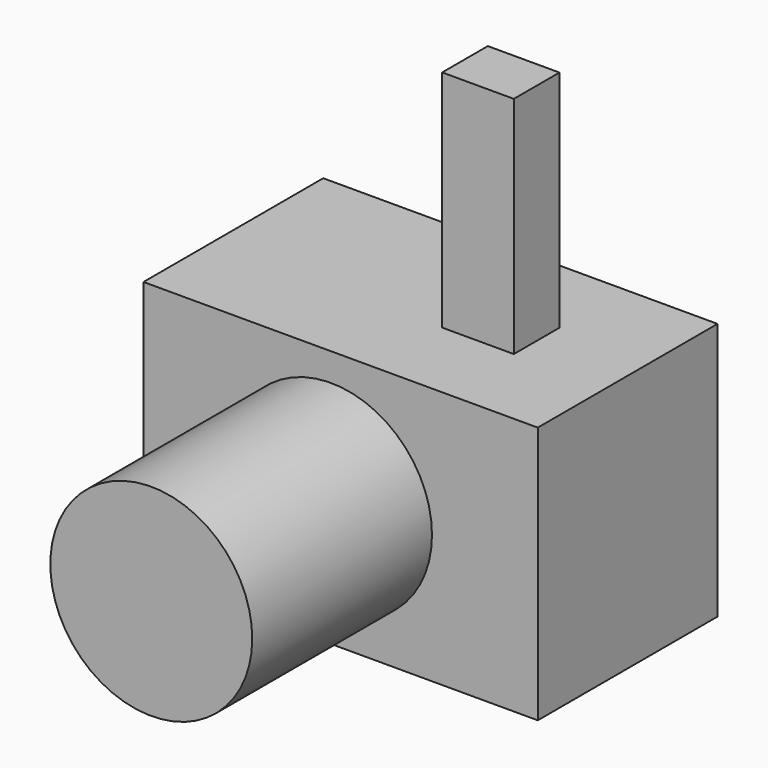
from build123d import *

# Parameters (mm, degrees)
F0_W     = 44.574387
F0_H     = 29.136432
F1_DEPTH = 25.4
F2_W     = 8.096363
F2_H     = 6.445411
F3_DEPTH = 25.4
F4_R     = 11.414874
F5_DEPTH = 25.4


with BuildPart() as f1:
    # F0 (on Front) → F1 (new body)
    with BuildSketch(Plane.XZ):
        with Locations((-22.287194, 14.568216)):
            Rectangle(F0_W, F0_H)
    extrude(amount=F1_DEPTH)

    # F2 (on face) → F3 (join)
    with BuildSketch(Plane.XY.offset(29.136432)):
        with Locations((-14.480712, -12.520231)):
            Rectangle(F2_W, F2_H)
    extrude(amount=F3_DEPTH)

    # F4 (on face) → F5 (join)
    with BuildSketch(Plane.XZ.offset(25.4)):
        with Locations((-23.374369, 14.568217)):
            Circle(F4_R)
    extrude(amount=F5_DEPTH)


solid = f1.part
